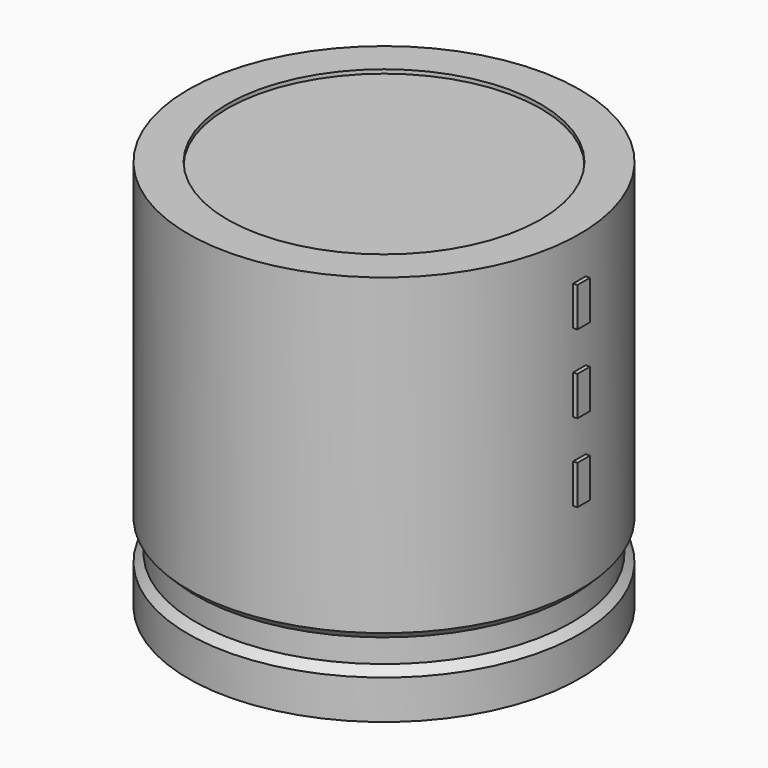
from build123d import *

# Parameters (mm, degrees)
SKETCH002_W   = 13.8
SKETCH002_H   = 29.4
SKETCH003_R   = 0.85
SKETCH003_R_2 = 1.1
PAD_DEPTH     = 6
SKETCH004_W   = 1.2
SKETCH004_H   = 3
PAD001_DEPTH  = 15.3


with BuildPart() as revolution:
    # Sketch → Revolution (revolve)
    with BuildSketch(Plane.XZ):
        Polygon((-10, 0.1), (-10, 3.1), (-9.4, 3.7), (-9.4, 5.5), (-10, 6.1), (-10, 30.1), (-7, 30.1), (-7, 0.1), align=None)
    revolve(axis=Axis((5, 0, 7.548619), (0, 0, -1)))


with BuildPart() as revolution001:
    # Sketch002 → Revolution001 (revolve)
    with BuildSketch(Plane.XZ):
        with Locations((-1.9, 15.1)):
            Rectangle(SKETCH002_W, SKETCH002_H)
    revolve(axis=Axis((5, 0, 4.680116), (0, 0, -1)))


with BuildPart() as pad:
    # Sketch003 → Pad (new body)
    with BuildSketch(Plane.XY.offset(3)):
        Circle(SKETCH003_R)
        with Locations((10, 0)):
            Circle(SKETCH003_R)
        with Locations((6.7, 4.75)):
            Circle(SKETCH003_R_2)
    extrude(amount=-PAD_DEPTH)


with BuildPart() as pad001:
    # Sketch004 → Pad001 (new body)
    with BuildSketch(Plane.YZ.offset(5)):
        with Locations((0, 13.5)):
            Rectangle(SKETCH004_W, SKETCH004_H)
        with Locations((0, 19.5)):
            Rectangle(SKETCH004_W, SKETCH004_H)
        with Locations((0, 25.5)):
            Rectangle(SKETCH004_W, SKETCH004_H)
    extrude(amount=PAD001_DEPTH)


solid = Compound([revolution.part, revolution001.part, pad.part, pad001.part])
